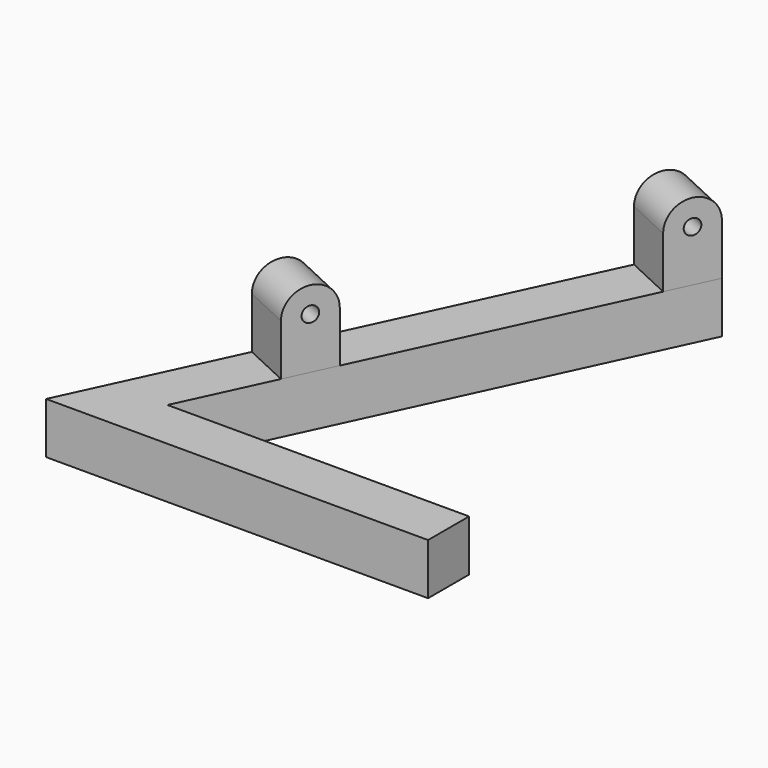
from build123d import *

# Parameters (mm, degrees)
PAD_DEPTH    = 10
SKETCH001_R  = 1.5
PAD001_DEPTH = 10


with BuildPart() as part:
    # Sketch → Pad (new body)
    with BuildSketch(Plane.XY):
        Polygon((74.568908, 0), (0, 0), (46.488009, 99.693857), (55.551087, 95.467674), (15.696856, 10), (74.568908, 10), align=None)
    extrude(amount=PAD_DEPTH)

    # Sketch001 (on Face4 of Pad) → Pad001 (join)
    with BuildSketch(Plane(origin=(9.063078, -4.226183, 0), x_dir=(0.422618, 0.906308, 0), z_dir=(0.906308, -0.422618, 0))):
        with BuildLine():
            Line((110, 10), (100, 10))
            Line((100, 10), (100, 20))
            ThreePointArc((110, 20), (105, 25), (100, 20))
            Line((110, 10), (110, 20))
        make_face()
        with Locations((105, 20)):
            Circle(SKETCH001_R, mode=Mode.SUBTRACT)
        with BuildLine():
            Line((45, 10), (45, 20))
            ThreePointArc((45, 20), (40, 25), (35, 20))
            Line((35, 10), (35, 20))
            Line((45, 10), (35, 10))
        make_face()
        with Locations((40, 20)):
            Circle(SKETCH001_R, mode=Mode.SUBTRACT)
    extrude(amount=-PAD001_DEPTH)


solid = part.part
